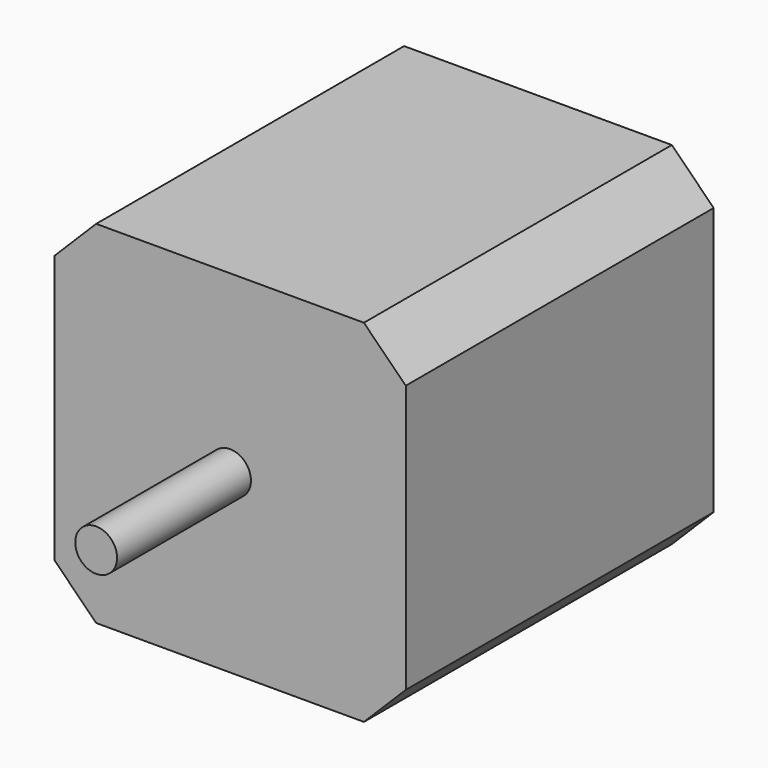
from build123d import *

# Parameters (mm, degrees)
SKETCH004_W     = 42
SKETCH004_H     = 42
PAD001_DEPTH    = 46
CHAMFER002_SIZE = 5
SKETCH005_R     = 2.5
PAD002_DEPTH    = 20


with BuildPart() as part:
    # Sketch004 → Pad001 (new body)
    with BuildSketch(Plane.XZ):
        Rectangle(SKETCH004_W, SKETCH004_H)
    extrude(amount=-PAD001_DEPTH)

    # Chamfer002
    chamfer002_edges = [part.edges().sort_by_distance(p)[0] for p in [
        (21, 23, 21),
        (21, 23, -21),
        (-21, 23, -21),
        (-21, 23, 21),
    ]]
    chamfer(chamfer002_edges, length=CHAMFER002_SIZE)

    # Sketch005 (on Face2 of Chamfer002) → Pad002 (join)
    with BuildSketch(Plane.XZ):
        Circle(SKETCH005_R)
    extrude(amount=PAD002_DEPTH)


with BuildPart() as part_1:
    # Body002 placement: moved
    add(part.part.moved(Location((-179, 5, 179))))


solid = part_1.part
